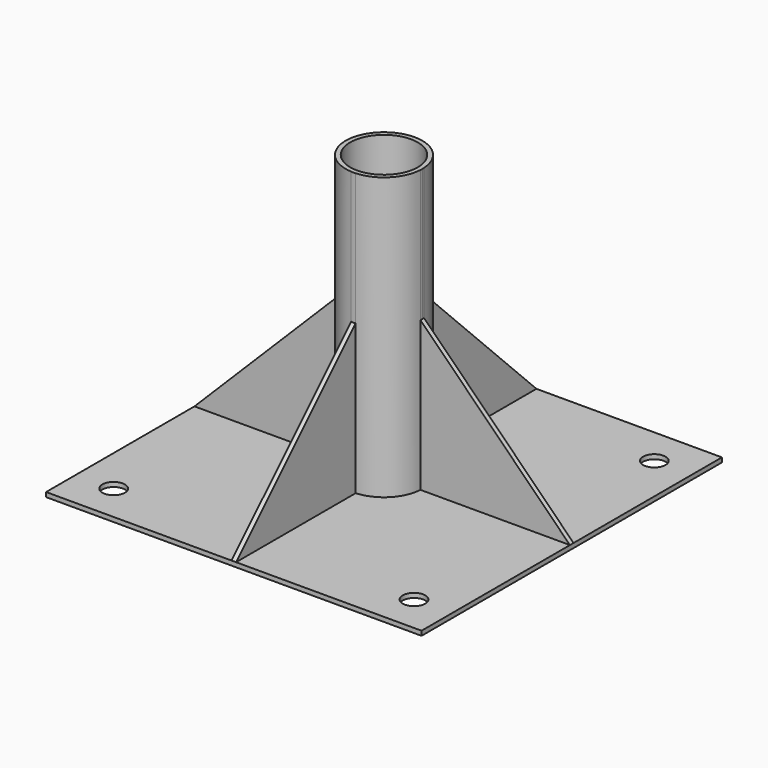
from build123d import *

# Parameters (mm, degrees)
F0_W      = 500
F0_H      = 500
F1_DEPTH  = 6
F3_DEPTH  = 200.09
F5_DEPTH  = 25
F8_DEPTH  = 25
F9_DEPTH  = 25
F2_R      = 15
F10_DEPTH = 25
F12_DEPTH = 25
F2_R_2    = 45
F13_DEPTH = 375


with BuildPart() as f1:
    # F0 (on Top) → F1 (new body)
    with BuildSketch(Plane.XY):
        Rectangle(F0_W, F0_H)
    extrude(amount=F1_DEPTH)

    # F2 (on face) → F3 (join)
    with BuildSketch(Plane.XY.offset(6)):
        with BuildLine():
            ThreePointArc((-3, 50.9116882454), (0, 51), (3, 50.9116882454))
            Line((3, 50.9116882454), (3, 250))
            Line((3, 250), (-3, 250))
            Line((-3, 250), (-3, 50.9116882454))
        make_face()
        with BuildLine():
            ThreePointArc((50.9116882454, 3), (50.9779172805, 1.5006497731), (51, 0))
            ThreePointArc((51, 0), (50.9779172805, -1.5006497731), (50.9116882454, -3))
            Line((50.9116882454, -3), (250, -3))
            Line((250, -3), (250, 3))
            Line((250, 3), (50.9116882454, 3))
        make_face()
        with BuildLine():
            ThreePointArc((-50.9116881716, -3.0000012524), (-51, -1.2546e-06), (-50.9116883192, 2.9999987476))
            Line((-50.9116883192, 2.9999987476), (-250, 3))
            Line((-250, 3), (-250, -3))
            Line((-250, -3), (-50.9116881716, -3.0000012524))
        make_face()
        with BuildLine():
            Line((3, -250), (3, -50.9116882454))
            ThreePointArc((3, -50.9116882454), (0, -51), (-3, -50.9116882454))
            Line((-3, -50.9116882454), (-3, -250))
            Line((-3, -250), (3, -250))
        make_face()
    extrude(amount=F3_DEPTH)

    # F4 (on face) → F5 (cut)
    with BuildSketch(Plane(origin=(0, 3, 0), x_dir=(-1, 0, 0), z_dir=(0, 1, 0))):
        Polygon((-250, 206.09), (-250, 6), (-50.9116882454, 205.0883117546), (-50.9116882454, 206.09), align=None)
    extrude(amount=-F5_DEPTH, mode=Mode.SUBTRACT)

    # F6 (on face) → F8 (cut)
    with BuildSketch(Plane.YZ.offset(3)):
        Polygon((-250, 206.09), (-250, 6), (-50.9116882454, 205.0883117546), (-50.9116882454, 206.09), align=None)
    extrude(amount=-F8_DEPTH, mode=Mode.SUBTRACT)

    # F7 (on face) → F9 (cut)
    with BuildSketch(Plane(origin=(-3, 0, 0), x_dir=(0, -1, 0), z_dir=(-1, 0, 0))):
        Polygon((-250, 206.09), (-250, 6), (-50.9116882454, 205.0883117546), (-50.9116882454, 206.09), align=None)
    extrude(amount=-F9_DEPTH, mode=Mode.SUBTRACT)

    # F2 (on face) → F10 (cut)
    with BuildSketch(Plane.XY.offset(6)):
        with Locations((-200, -200)):
            Circle(F2_R)
        with Locations((200, -200)):
            Circle(F2_R)
        with Locations((200, 200)):
            Circle(F2_R)
        with Locations((-200, 200)):
            Circle(F2_R)
    extrude(amount=-F10_DEPTH, mode=Mode.SUBTRACT)

    # F11 (on face) → F12 (cut)
    with BuildSketch(Plane(origin=(-1.89e-08, -3.0000015726, 0), x_dir=(1, -6.3e-09, 0), z_dir=(-6.3e-09, -1, 0))):
        Polygon((-249.9999999811, 206.09), (-249.9999999811, 6), (-50.9116881528, 205.0883118284), (-50.9116881528, 206.09), align=None)
    extrude(amount=-F12_DEPTH, mode=Mode.SUBTRACT)

    # F2 (on face) → F13 (join)
    with BuildSketch(Plane.XY.offset(6)):
        with BuildLine():
            ThreePointArc((50.9116882454, -3), (50.9779172805, -1.5006497731), (51, 0))
            ThreePointArc((51, 0), (50.9779172805, 1.5006497731), (50.9116882454, 3))
            ThreePointArc((50.9116882454, 3), (36.0624458405, 36.0624458405), (3, 50.9116882454))
            ThreePointArc((3, 50.9116882454), (0, 51), (-3, 50.9116882454))
            ThreePointArc((-3, 50.9116882454), (-36.0624462841, 36.062445397), (-50.9116883192, 2.9999987476))
            ThreePointArc((-50.9116883192, 2.9999987476), (-51, -1.2546e-06), (-50.9116881716, -3.0000012524))
            ThreePointArc((-50.9116881716, -3.0000012524), (-36.062445397, -36.0624462841), (-3, -50.9116882454))
            ThreePointArc((-3, -50.9116882454), (0, -51), (3, -50.9116882454))
            ThreePointArc((3, -50.9116882454), (36.0624458405, -36.0624458405), (50.9116882454, -3))
        make_face()
        Circle(F2_R_2, mode=Mode.SUBTRACT)
    extrude(amount=F13_DEPTH)


solid = f1.part
